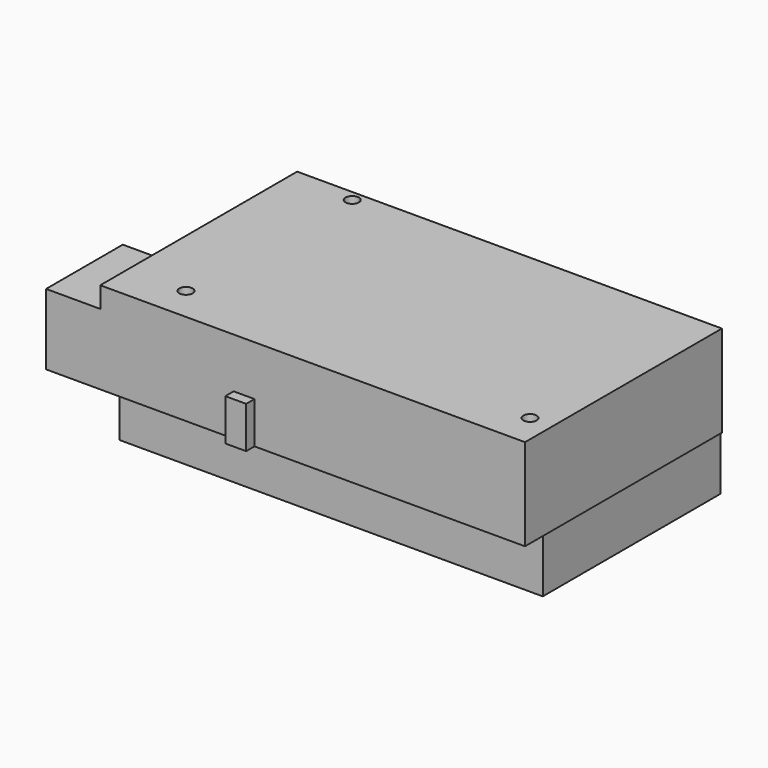
from build123d import *

# Parameters (mm, degrees)
SKETCH_W     = 101.6
SKETCH_H     = 53.34
SKETCH_R     = 1.6
PAD_DEPTH    = 13
SKETCH001_W  = 101.91
SKETCH001_H  = 59.05
SKETCH001_R  = 1.6
PAD001_DEPTH = 22
SKETCH002_W  = 13
SKETCH002_H  = 23
PAD002_DEPTH = 17
SKETCH003_W  = 5
SKETCH003_H  = 2.5
PAD003_DEPTH = 10


with BuildPart() as part:
    # Sketch → Pad (new body)
    with BuildSketch(Plane.XY):
        with Locations((50.8, 26.67)):
            Rectangle(SKETCH_W, SKETCH_H)
        with Locations((13.97, 2.54)):
            Circle(SKETCH_R, mode=Mode.SUBTRACT)
        with Locations((15.24, 50.8)):
            Circle(SKETCH_R, mode=Mode.SUBTRACT)
        with Locations((90.17, 50.8)):
            Circle(SKETCH_R, mode=Mode.SUBTRACT)
        with Locations((96.52, 2.54)):
            Circle(SKETCH_R, mode=Mode.SUBTRACT)
        with Locations((66.04, 35.56)):
            Circle(SKETCH_R, mode=Mode.SUBTRACT)
        with Locations((66.04, 7.62)):
            Circle(SKETCH_R, mode=Mode.SUBTRACT)
    extrude(amount=-PAD_DEPTH)

    # Sketch001 (on DatumPlane) → Pad001 (join)
    with BuildSketch(Plane(origin=(0, -5.71, 0), x_dir=(1, 0, 0), z_dir=(0, 0, 1))):
        with Locations((50.955, 29.525)):
            Rectangle(SKETCH001_W, SKETCH001_H)
        with Locations((13.97, 8.25)):
            Circle(SKETCH001_R, mode=Mode.SUBTRACT)
        with Locations((15.24, 56.51)):
            Circle(SKETCH001_R, mode=Mode.SUBTRACT)
        with Locations((96.52, 8.25)):
            Circle(SKETCH001_R, mode=Mode.SUBTRACT)
    extrude(amount=PAD001_DEPTH)

    # Sketch002 (on DatumPlane) → Pad002 (join)
    with BuildSketch(Plane(origin=(0, -5.71, 0), x_dir=(1, 0, 0), z_dir=(0, 0, 1))):
        with Locations((-6.5, 11.5)):
            Rectangle(SKETCH002_W, SKETCH002_H)
    extrude(amount=PAD002_DEPTH)

    # Sketch003 (on DatumPlane) → Pad003 (join)
    with BuildSketch(Plane(origin=(0, -5.71, 0), x_dir=(1, 0, 0), z_dir=(0, 0, 1))):
        with Locations((34.5, -1.25)):
            Rectangle(SKETCH003_W, SKETCH003_H)
    extrude(amount=PAD003_DEPTH)


solid = part.part
